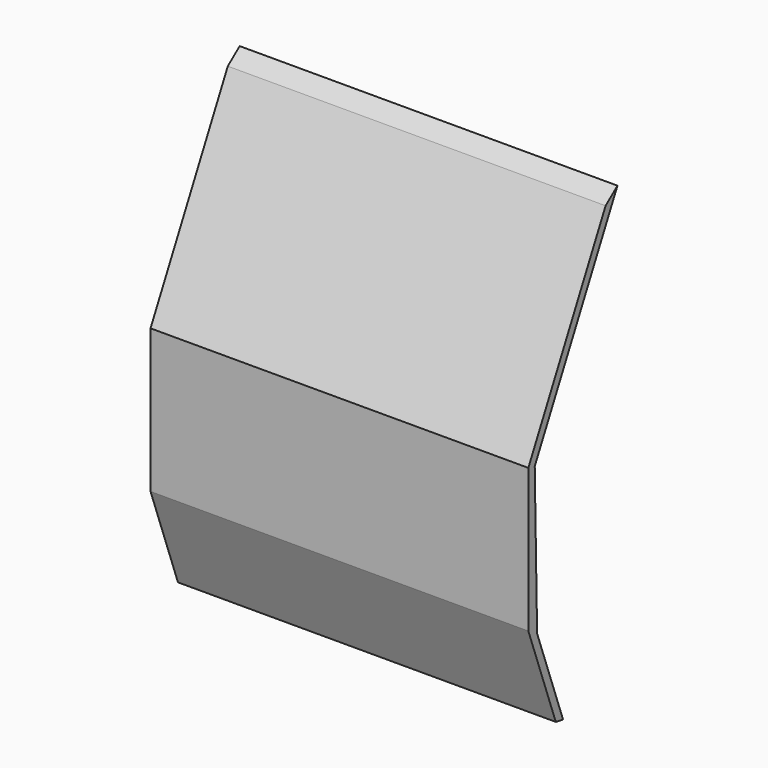
from build123d import *

# Parameters (mm, degrees)
F1_DEPTH      = 150
F1_DEPTH_BACK = 150


with BuildPart() as f1:
    # F0 (on Right) → F1 (new body, two sides)
    with BuildSketch(Plane.YZ) as f1_sk:
        Polygon((0, 165.983751), (82.12112, 328.824738), (70.343, 319.571674), (-6.35, 167.494305), (-6.35, 53.473559), (20.889167, -21.175262), (28.124628, -22.479507), (2.355591, 48.140429), align=None)
    extrude(amount=F1_DEPTH)
    extrude(f1_sk.sketch, amount=-F1_DEPTH_BACK)


solid = f1.part
